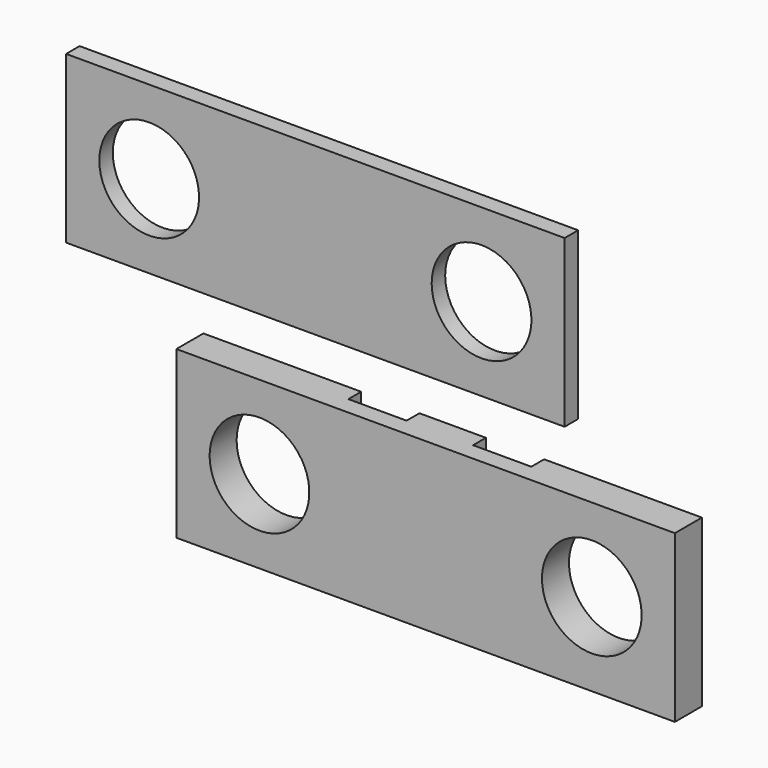
from build123d import *

# Parameters (mm, degrees)
F0_W      = 15
F0_H      = 5
F1_DEPTH  = 1.016
F2_W      = 15
F2_H      = 5
F3_DEPTH  = 0.508
F4_W      = 1.7526
F4_H      = 6
F5_DEPTH  = 0.4826
F7_D      = 3
F9_W      = 1.7526
F9_H      = 6
F10_DEPTH = 0.4826
F12_D     = 3


with BuildPart() as f1:
    # F0 (on Front) → F1 (new body)
    with BuildSketch(Plane.XZ):
        Rectangle(F0_W, F0_H)
    extrude(amount=F1_DEPTH)

    # F7 (through all)
    with Locations(Plane(origin=(0, 0, 0), x_dir=(1, 0, 0), z_dir=(0, 1, 0))):
        with Locations((-5, 0), (5, 0)):
            Hole(F7_D / 2)


with BuildPart() as f3:
    # F2 (on Front) → F3 (new body)
    with BuildSketch(Plane.XZ):
        with Locations((-3.724698, 6.400033)):
            Rectangle(F2_W, F2_H)
    extrude(amount=F3_DEPTH)

    # F12 (through all)
    with Locations(Plane.XZ.offset(0.508)):
        with Locations((-8.724698, 6.400033), (1.275302, 6.400033)):
            Hole(F12_D / 2)


with BuildPart() as f5:
    # F4 (on Front) → F5 (new body)
    with BuildSketch(Plane.XZ):
        with Locations((-1.8763, 0)):
            Rectangle(F4_W, F4_H)
    extrude(amount=F5_DEPTH)


with BuildPart() as f1_1:
    add(f1.part)

    # F8: cut F5
    add(f5.part, mode=Mode.SUBTRACT)


with BuildPart() as f10:
    # F9 (on Front) → F10 (new body)
    with BuildSketch(Plane.XZ):
        with Locations((1.8763, 0)):
            Rectangle(F9_W, F9_H)
    extrude(amount=F10_DEPTH)


with BuildPart() as f1_2:
    add(f1_1.part)

    # F13: cut F5, F10
    add(f5.part, mode=Mode.SUBTRACT)
    add(f10.part, mode=Mode.SUBTRACT)


solid = Compound([f3.part, f1_2.part])
